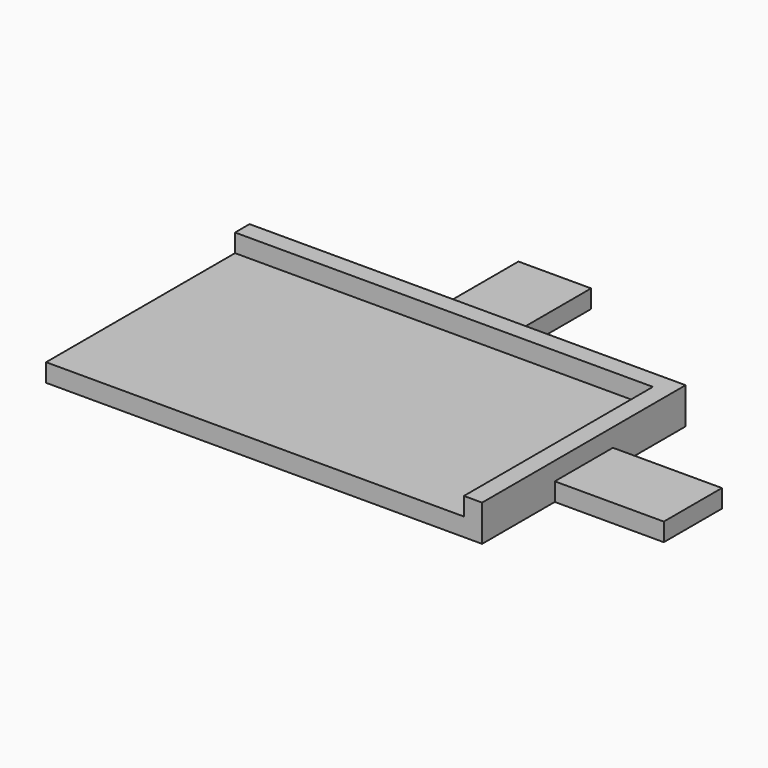
from build123d import *

# Parameters (mm, degrees)
F0_W     = 115
F0_H     = 65
F1_DEPTH = 5
F2_DEPTH = 5
F3_DEPTH = 10


with BuildPart() as f1:
    # F0 (on Top) → F1 (new body)
    with BuildSketch(Plane.XY):
        with Locations((-62.5, 32.5)):
            Rectangle(F0_W, F0_H)
    extrude(amount=F1_DEPTH)



with BuildPart() as f2:
    # F0 (on Top) → F2 (new body)
    with BuildSketch(Plane.XY):
        Polygon((-70, 70), (-50, 70), (-50, 100), (-60, 100), (-70, 100), align=None)
    extrude(amount=F2_DEPTH)


with BuildPart() as f2b:
    # F0 (on Top) → F2, piece 2 (new body)
    with BuildSketch(Plane.XY):
        Polygon((0, 45), (0, 25), (30, 25), (30, 35), (30, 45), align=None)
    extrude(amount=F2_DEPTH)


with BuildPart() as f1_1:
    add(f1.part)

    add(f2.part)  # F3 merges F2

    add(f2b.part)  # F3 merges F2b
    # F0 (on Top) → F3 (join)
    with BuildSketch(Plane.XY):
        Polygon((-5, 0), (0, 0), (0, 25), (0, 45), (0, 70), (-50, 70), (-70, 70), (-120, 70), (-120, 65), (-5, 65), align=None)
    extrude(amount=F3_DEPTH)


solid = f1_1.part
